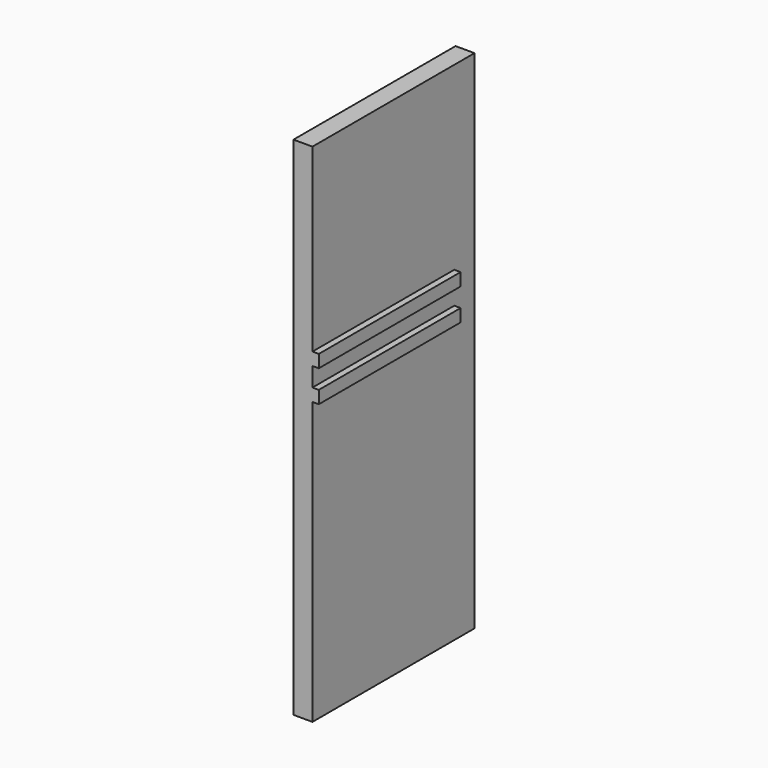
from build123d import *

# Parameters (mm, degrees)
F0_W     = 203.2
F0_H     = 508
F1_DEPTH = 19.05
F2_W     = 76.2
F2_H     = 12.7
F2_W_2   = 101.6
F3_DEPTH = 6.35


with BuildPart() as f1:
    # F0 (on Right) → F1 (new body)
    with BuildSketch(Plane.YZ):
        Rectangle(F0_W, F0_H)
    extrude(amount=F1_DEPTH)

    # F2 (on face) → F3 (join)
    with BuildSketch(Plane.YZ.offset(19.05)):
        with Locations((38.1, 66.6749097909)):
            Rectangle(F2_W, F2_H)
        with Locations((-50.8, 34.9250902091)):
            Rectangle(F2_W_2, F2_H)
        with Locations((38.1, 34.9250902091)):
            Rectangle(F2_W, F2_H)
        with Locations((-50.8, 66.6749097909)):
            Rectangle(F2_W_2, F2_H)
    extrude(amount=F3_DEPTH)


solid = f1.part
